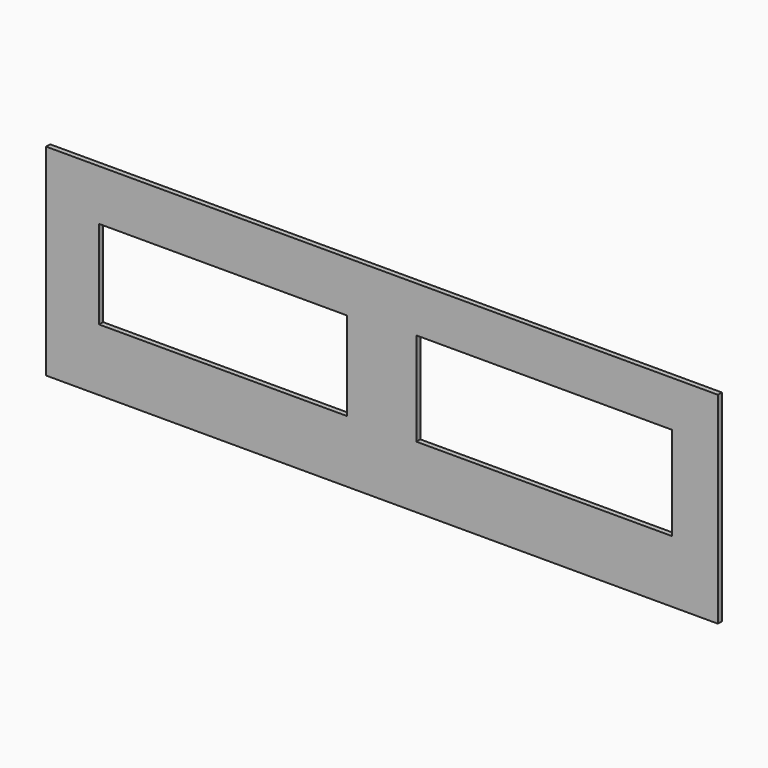
from build123d import *

# Parameters (mm, degrees)
F0_W     = 12192
F0_H     = 91.44
F1_DEPTH = 3657.6
F2_W     = 4496.328354
F2_H     = 1607.222677
F2_W_2   = 4641.730904
F2_H_2   = 1698.346973
F3_DEPTH = 6858


with BuildPart() as f1:
    # F0 (on Top) → F1 (new body)
    with BuildSketch(Plane.XY):
        with Locations((637.74692, 837.55108)):
            Rectangle(F0_W, F0_H)
    extrude(amount=F1_DEPTH)

    # F2 (on face) → F3 (cut)
    with BuildSketch(Plane.XZ.offset(-791.83108)):
        with Locations((-2248.164177, 1932.416379)):
            Rectangle(F2_W, F2_H)
        with Locations((3581.21413, 1977.978527)):
            Rectangle(F2_W_2, F2_H_2)
    extrude(amount=-F3_DEPTH, mode=Mode.SUBTRACT)


solid = f1.part
